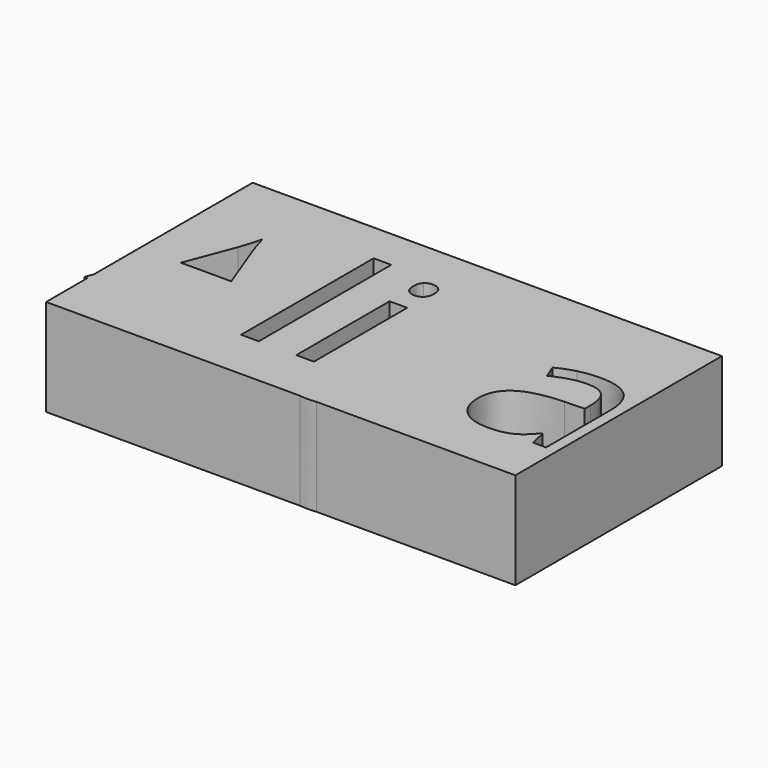
from build123d import *

# Parameters (mm, degrees)
F0_W     = 4.6371185902
F0_H     = 30.6014088084
F0_H_2   = 43.4495331489
F1_DEPTH = 25.4


with BuildPart() as f1:
    # F0 (on Top) → F1 (new body)
    with BuildSketch(Plane.XY):
        with BuildLine():
            Line((63.0750581622, 37.8247536719), (-60.0328557193, 37.8247536719))
            Line((-60.0328557193, 37.8247536719), (-60.0328557193, -14.2655899338))
            Line((-60.0328557193, -14.2655899338), (-44.7080042092, 24.6659818982))
            Line((-44.7080042092, 24.6659818982), (-40.7141853078, 24.6659818982))
            Line((-40.7141853078, 24.6659818982), (-24.658497241, -16.3265038282))
            Line((-24.658497241, -16.3265038282), (-29.5725920862, -16.3265038282))
            Line((-29.5725920862, -16.3265038282), (-34.6564465714, -3.3443587191))
            Line((-34.6564465714, -3.3443587191), (-51.0159150468, -3.3443587191))
            Line((-51.0159150468, -3.3443587191), (-56.0372265067, -16.3265038282))
            Line((-56.0372265067, -16.3265038282), (-60.0328557193, -16.3265038282))
            Line((-60.0328557193, -16.3265038282), (-60.0328557193, -29.9150198698))
            Line((-60.0328557193, -29.9150198698), (6.5335062061, -29.9150198698))
            add(Edge.make_bspline(
                [(6.5335062061, -29.9150198698), (5.6202163906, -29.7963329994), (4.718855215, -29.5856251921)],
                knots=[0.5632770419, 0.5632770419, 0.5632770419, 1, 1, 1], degree=2))
            Line((4.718855215, -29.5856251921), (4.718855215, -25.8777172635))
            add(Edge.make_bspline(
                [(4.718855215, -25.8777172635), (6.2556266938, -26.2083018258), (8.1497868887, -26.2083018258)],
                knots=[0, 0, 0, 1, 1, 1], degree=2))
            add(Edge.make_bspline(
                [(8.1497868887, -26.2083018258), (12.9298609653, -26.2083018258), (14.9669766466, -20.8474710857)],
                knots=[0, 0, 0, 1, 1, 1], degree=2))
            Line((14.9669766466, -20.8474710857), (16.6735077655, -16.4962634683))
            Line((16.6735077655, -16.4962634683), (4.3257276274, 14.2749049802))
            Line((4.3257276274, 14.2749049802), (9.3023654978, 14.2749049802))
            Line((9.3023654978, 14.2749049802), (16.003403923, -3.174599079))
            add(Edge.make_bspline(
                [(16.003403923, -3.174599079), (18.2013445265, -9.1519253543), (18.7374276005, -11.8055365706)],
                knots=[0, 0, 0, 1, 1, 1], degree=2))
            Line((18.7374276005, -11.8055365706), (18.960795548, -11.8055365706))
            add(Edge.make_bspline(
                [(18.960795548, -11.8055365706), (19.318184264, -10.3759817066), (20.479697591, -6.9271805971)],
                knots=[0, 0, 0, 1, 1, 1], degree=2))
            add(Edge.make_bspline(
                [(20.479697591, -6.9271805971), (21.6412109181, -3.4783794876), (28.0652730883, 14.2749049802)],
                knots=[0, 0, 0, 1, 1, 1], degree=2))
            Line((28.0652730883, 14.2749049802), (33.0329762409, 14.2749049802))
            Line((33.0329762409, 14.2749049802), (19.8810714917, -20.5704948308))
            add(Edge.make_bspline(
                [(19.8810714917, -20.5704948308), (17.9243682716, -25.7347617771), (15.3154306447, -27.9014308679)],
                knots=[0, 0, 0, 1, 1, 1], degree=2))
            add(Edge.make_bspline(
                [(15.3154306447, -27.9014308679), (13.3999615447, -29.4921885965), (10.8439389661, -29.9150198698)],
                knots=[0, 0, 0, 0.7341950533, 0.7341950533, 0.7341950533], degree=2))
            Line((10.8439389661, -29.9150198698), (63.0750581622, -29.9150198698))
            Line((63.0750581622, -29.9150198698), (63.0750581622, 37.8247536719))
        make_face()
        with Locations((-2.9605348203, -1.025799424)):
            Rectangle(F0_W, F0_H, mode=Mode.SUBTRACT)
        with BuildLine():
            Line((60.2570616829, -16.3265038282), (56.8171952913, -16.3265038282))
            Line((56.8171952913, -16.3265038282), (55.8969193476, -11.9663614928))
            Line((55.8969193476, -11.9663614928), (55.6735514001, -11.9663614928))
            add(Edge.make_bspline(
                [(55.6735514001, -11.9663614928), (53.3862636176, -14.8433406567), (51.112377912, -15.8663658563)],
                knots=[0, 0, 0, 1, 1, 1], degree=2))
            add(Edge.make_bspline(
                [(51.112377912, -15.8663658563), (48.8384922064, -16.8893910559), (45.4254299685, -16.8893910559)],
                knots=[0, 0, 0, 1, 1, 1], degree=2))
            add(Edge.make_bspline(
                [(45.4254299685, -16.8893910559), (40.8776585573, -16.8893910559), (38.2955250841, -14.5395602481)],
                knots=[0, 0, 0, 1, 1, 1], degree=2))
            add(Edge.make_bspline(
                [(38.2955250841, -14.5395602481), (35.7133916109, -12.1897294404), (35.7133916109, -7.8653259766)],
                knots=[0, 0, 0, 1, 1, 1], degree=2))
            add(Edge.make_bspline(
                [(35.7133916109, -7.8653259766), (35.7133916109, 1.3999764859), (50.5360886075, 1.8467123809)],
                knots=[0, 0, 0, 1, 1, 1], degree=2))
            Line((50.5360886075, 1.8467123809), (55.7271597075, 2.016472021))
            Line((55.7271597075, 2.016472021), (55.7271597075, 3.9195669338))
            add(Edge.make_bspline(
                [(55.7271597075, 3.9195669338), (55.7271597075, 7.5202582476), (54.1814535108, 9.2357240844)],
                knots=[0, 0, 0, 1, 1, 1], degree=2))
            add(Edge.make_bspline(
                [(54.1814535108, 9.2357240844), (52.635747314, 10.9511899213), (49.2226850761, 10.9511899213)],
                knots=[0, 0, 0, 1, 1, 1], degree=2))
            add(Edge.make_bspline(
                [(49.2226850761, 10.9511899213), (45.3986258148, 10.9511899213), (40.5738781487, 8.6102938314)],
                knots=[0, 0, 0, 1, 1, 1], degree=2))
            Line((40.5738781487, 8.6102938314), (39.1443232846, 12.1573768378))
            add(Edge.make_bspline(
                [(39.1443232846, 12.1573768378), (41.4048069134, 13.3814331902), (44.0986243603, 14.0783411864)],
                knots=[0, 0, 0, 1, 1, 1], degree=2))
            add(Edge.make_bspline(
                [(44.0986243603, 14.0783411864), (46.7924418073, 14.7752491826), (49.5085960489, 14.7752491826)],
                knots=[0, 0, 0, 1, 1, 1], degree=2))
            add(Edge.make_bspline(
                [(49.5085960489, 14.7752491826), (54.9766434039, 14.7752491826), (57.6168525434, 12.3494732727)],
                knots=[0, 0, 0, 1, 1, 1], degree=2))
            add(Edge.make_bspline(
                [(57.6168525434, 12.3494732727), (60.2570616829, 9.9236973628), (60.2570616829, 4.5628666226)],
                knots=[0, 0, 0, 1, 1, 1], degree=2))
            Line((60.2570616829, 4.5628666226), (60.2570616829, -16.3265038282))
        make_face(mode=Mode.SUBTRACT)
        with Locations((-17.4258431008, 5.3982627463)):
            Rectangle(F0_W, F0_H_2, mode=Mode.SUBTRACT)
        with BuildLine():
            add(Edge.make_bspline(
                [(-4.8904338867, 20.2343618197), (-5.672221703, 21.0027475591), (-5.672221703, 22.5663231916)],
                knots=[0, 0, 0, 1, 1, 1], degree=2))
            add(Edge.make_bspline(
                [(-5.672221703, 22.5663231916), (-5.672221703, 24.1567029779), (-4.8904338867, 24.8982845636)],
                knots=[0, 0, 0, 1, 1, 1], degree=2))
            add(Edge.make_bspline(
                [(-4.8904338867, 24.8982845636), (-4.1086460705, 25.6398661493), (-2.9292633076, 25.6398661493)],
                knots=[0, 0, 0, 1, 1, 1], degree=2))
            add(Edge.make_bspline(
                [(-2.9292633076, 25.6398661493), (-1.8124235701, 25.6398661493), (-1.0038316001, 24.8848824867)],
                knots=[0, 0, 0, 1, 1, 1], degree=2))
            add(Edge.make_bspline(
                [(-1.0038316001, 24.8848824867), (-0.1952396302, 24.1298988242), (-0.1952396302, 22.5663231916)],
                knots=[0, 0, 0, 1, 1, 1], degree=2))
            add(Edge.make_bspline(
                [(-0.1952396302, 22.5663231916), (-0.1952396302, 21.0027475591), (-1.0038316001, 20.2343618197)],
                knots=[0, 0, 0, 1, 1, 1], degree=2))
            add(Edge.make_bspline(
                [(-1.0038316001, 20.2343618197), (-1.8124235701, 19.4659760802), (-2.9292633076, 19.4659760802)],
                knots=[0, 0, 0, 1, 1, 1], degree=2))
            add(Edge.make_bspline(
                [(-2.9292633076, 19.4659760802), (-4.1086460705, 19.4659760802), (-4.8904338867, 20.2343618197)],
                knots=[0, 0, 0, 1, 1, 1], degree=2))
        make_face(mode=Mode.SUBTRACT)
        Polygon((-44.7080042092, 24.6659818982), (-60.0328557193, -14.2655899338), (-60.0328557193, -16.3265038282), (-56.0372265067, -16.3265038282), (-51.0159150468, -3.3443587191), (-34.6564465714, -3.3443587191), (-29.5725920862, -16.3265038282), (-24.658497241, -16.3265038282), (-40.7141853078, 24.6659818982), align=None)
        with BuildLine():
            Line((-40.8839449479, 13.577996984), (-36.130675025, 0.9264364372))
            Line((-36.130675025, 0.9264364372), (-49.3361880815, 0.9264364372))
            Line((-49.3361880815, 0.9264364372), (-44.5382445691, 13.577996984))
            add(Edge.make_bspline(
                [(-42.7781051427, 19.4659760802), (-43.3946006779, 16.7855607102), (-44.5382445691, 13.577996984)],
                knots=[0, 0, 0, 1, 1, 1], degree=2))
            add(Edge.make_bspline(
                [(-40.8839449479, 13.577996984), (-41.8042208916, 15.9814360991), (-42.7781051427, 19.4659760802)],
                knots=[0, 0, 0, 1, 1, 1], degree=2))
        make_face(mode=Mode.SUBTRACT)
        Polygon((-60.0328557193, -16.3265038282), (-60.0328557193, -14.2655899338), (-60.844104737, -16.3265038282), align=None)
        with BuildLine():
            add(Edge.make_bspline(
                [(10.8439389661, -29.9150198698), (9.9185671017, -30.0680999588), (8.9092379102, -30.0680999588)],
                knots=[0.7341950533, 0.7341950533, 0.7341950533, 1, 1, 1], degree=2))
            Line((10.8439389661, -29.9150198698), (6.5335062061, -29.9150198698))
            add(Edge.make_bspline(
                [(8.9092379102, -30.0680999588), (7.7114502005, -30.0680999588), (6.5335062061, -29.9150198698)],
                knots=[0, 0, 0, 0.5632770419, 0.5632770419, 0.5632770419], degree=2))
        make_face()
        with BuildLine():
            Line((6.5335062061, -29.9150198698), (10.8439389661, -29.9150198698))
            add(Edge.make_bspline(
                [(15.3154306447, -27.9014308679), (13.3999615447, -29.4921885965), (10.8439389661, -29.9150198698)],
                knots=[0, 0, 0, 0.7341950533, 0.7341950533, 0.7341950533], degree=2))
            add(Edge.make_bspline(
                [(19.8810714917, -20.5704948308), (17.9243682716, -25.7347617771), (15.3154306447, -27.9014308679)],
                knots=[0, 0, 0, 1, 1, 1], degree=2))
            Line((19.8810714917, -20.5704948308), (33.0329762409, 14.2749049802))
            Line((33.0329762409, 14.2749049802), (28.0652730883, 14.2749049802))
            add(Edge.make_bspline(
                [(20.479697591, -6.9271805971), (21.6412109181, -3.4783794876), (28.0652730883, 14.2749049802)],
                knots=[0, 0, 0, 1, 1, 1], degree=2))
            add(Edge.make_bspline(
                [(18.960795548, -11.8055365706), (19.318184264, -10.3759817066), (20.479697591, -6.9271805971)],
                knots=[0, 0, 0, 1, 1, 1], degree=2))
            Line((18.960795548, -11.8055365706), (18.7374276005, -11.8055365706))
            add(Edge.make_bspline(
                [(16.003403923, -3.174599079), (18.2013445265, -9.1519253543), (18.7374276005, -11.8055365706)],
                knots=[0, 0, 0, 1, 1, 1], degree=2))
            Line((16.003403923, -3.174599079), (9.3023654978, 14.2749049802))
            Line((9.3023654978, 14.2749049802), (4.3257276274, 14.2749049802))
            Line((4.3257276274, 14.2749049802), (16.6735077655, -16.4962634683))
            Line((16.6735077655, -16.4962634683), (14.9669766466, -20.8474710857))
            add(Edge.make_bspline(
                [(8.1497868887, -26.2083018258), (12.9298609653, -26.2083018258), (14.9669766466, -20.8474710857)],
                knots=[0, 0, 0, 1, 1, 1], degree=2))
            add(Edge.make_bspline(
                [(4.718855215, -25.8777172635), (6.2556266938, -26.2083018258), (8.1497868887, -26.2083018258)],
                knots=[0, 0, 0, 1, 1, 1], degree=2))
            Line((4.718855215, -25.8777172635), (4.718855215, -29.5856251921))
            add(Edge.make_bspline(
                [(6.5335062061, -29.9150198698), (5.6202163906, -29.7963329994), (4.718855215, -29.5856251921)],
                knots=[0.5632770419, 0.5632770419, 0.5632770419, 1, 1, 1], degree=2))
        make_face()
    extrude(amount=F1_DEPTH)


solid = f1.part
